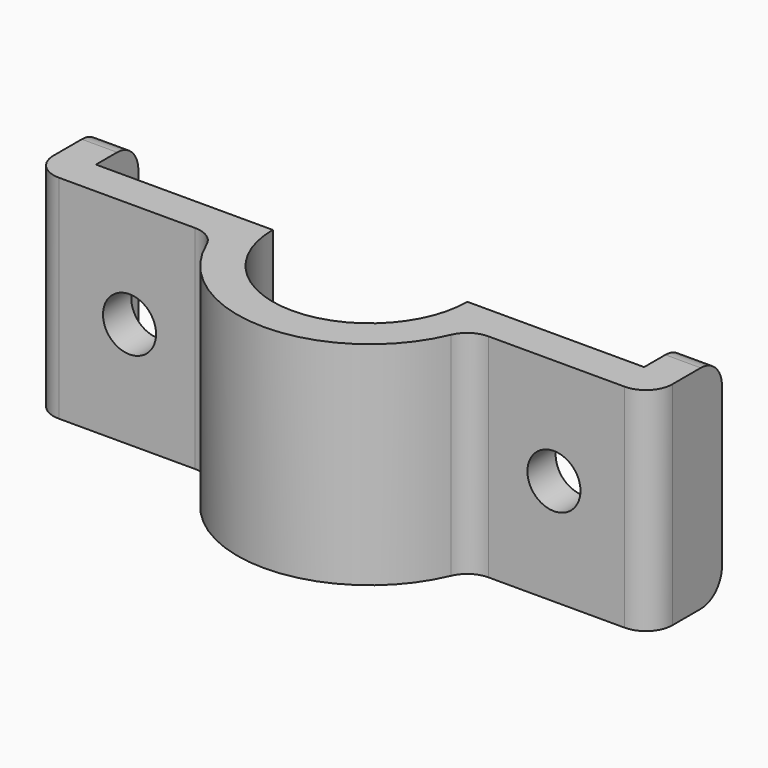
from build123d import *

# Parameters (mm, degrees)
F1_DEPTH = 76.2
F2_R     = 9.525
F3_DEPTH = 31.751
F4_R     = 9.525


with BuildPart() as f1:
    # F0 (on Top) → F1 (new body)
    with BuildSketch(Plane.XY):
        with BuildLine():
            Line((-98.425, 19.05), (-111.125, 19.05))
            Line((-111.125, 19.05), (-111.125, -12.7))
            Line((-111.125, -12.7), (-45.900443, -12.7))
            ThreePointArc((-45.900443, -12.7), (0, -47.625), (45.900443, -12.7))
            Line((45.900443, -12.7), (111.125, -12.7))
            Line((111.125, -12.7), (111.125, 19.05))
            Line((111.125, 19.05), (98.425, 19.05))
            Line((98.425, 19.05), (98.425, 0))
            Line((98.425, 0), (34.925, 0))
            ThreePointArc((34.925, 0), (0, -34.925), (-34.925, 0))
            Line((-34.925, 0), (-98.425, 0))
            Line((-98.425, 0), (-98.425, 19.05))
        make_face()
    extrude(amount=F1_DEPTH)

    # F2 (on face) → F3 (cut, through all)
    with BuildSketch(Plane.XZ.offset(12.7)):
        with Locations((-76.2, 38.1)):
            Circle(F2_R)
        with Locations((76.2, 38.1)):
            Circle(F2_R)
    extrude(amount=-F3_DEPTH, mode=Mode.SUBTRACT)

    # F4
    f4_edges = [f1.edges().sort_by_distance(p)[0] for p in [
        (111.125, -12.7, 38.1),
        (45.900443, -12.7, 38.1),
        (-45.900443, -12.7, 38.1),
        (-111.125, -12.7, 38.1),
        (104.775, 19.05, 76.2),
        (-104.775, 19.05, 76.2),
        (104.775, 19.05, 0),
        (-104.775, 19.05, 0),
    ]]
    fillet(f4_edges, radius=F4_R)


solid = f1.part
